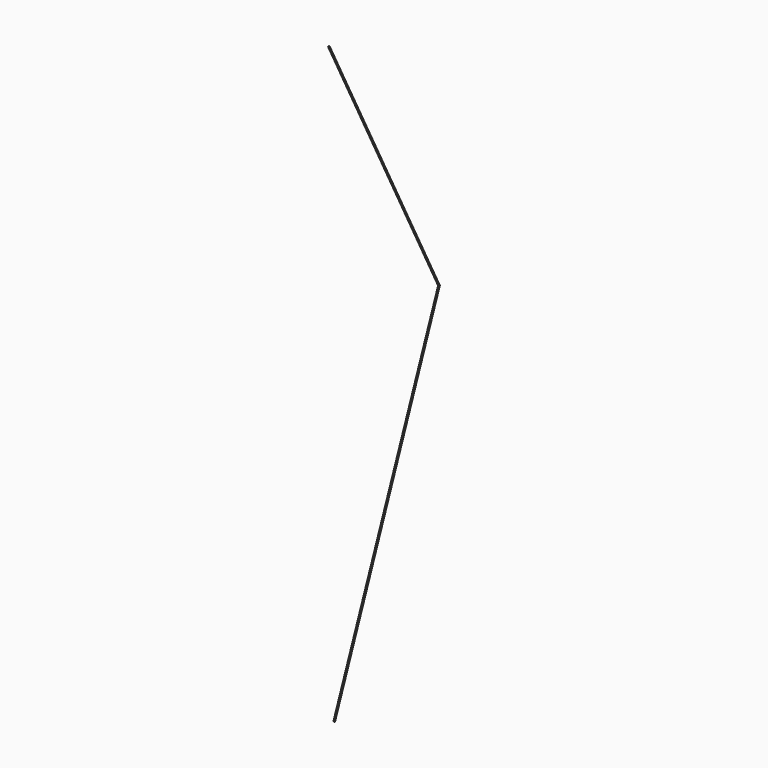
from build123d import *

# Parameters (mm, degrees)
F12_R = 5


with BuildPart() as f13:
    # F13: sweep along a path in F10
    with BuildLine(Plane.YZ) as f13_path:
        Line((0, 4657), (1050, 2625))
        Line((1050, 2625), (50, 100))
    # F12 (on line) → F13 (sweep)
    with BuildSketch(Plane(origin=(0, -1899.2888496736, 3675.5761357494), x_dir=(1, 0, 0), z_dir=(0, 0.4590660628, -0.888402133))):
        with Locations((0, -2137.8706546036)):
            Circle(F12_R)
    sweep(path=f13_path.line, transition=Transition.RIGHT)


solid = f13.part
